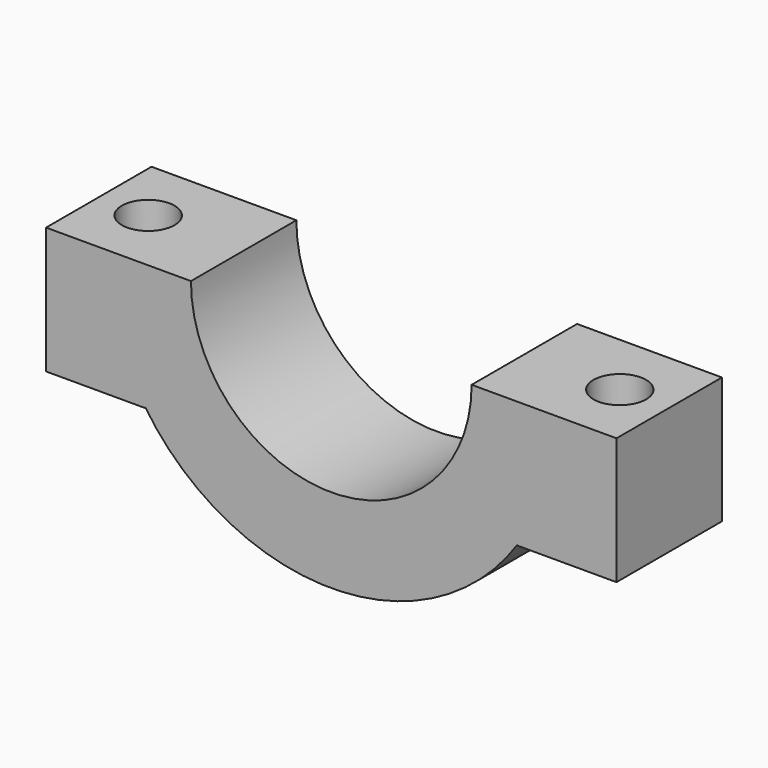
from build123d import *

# Parameters (mm, degrees)
F1_DEPTH = 1.27
F3_R     = 0.508
F2_R     = 0.508
F4_DEPTH = 25.4


with BuildPart() as f1:
    # F0 (on Front) → F1 (new body, symmetric)
    with BuildSketch(Plane.XZ):
        with BuildLine():
            ThreePointArc((-3.592195, -2.4189042089), (-4.1419609714, -1.2645638781), (-4.3307, 0))
            Line((-4.3307, 0), (-5.497195, 0))
            Line((-5.497195, 0), (-5.497195, -2.441702))
            Line((-5.497195, -2.441702), (-3.592195, -2.441702))
            Line((-3.592195, -2.441702), (-3.592195, -2.4189042089))
        make_face()
        with BuildLine():
            Line((5.497195, 0), (4.3307, 0))
            ThreePointArc((4.3307, 0), (4.1419609714, -1.2645638781), (3.592195, -2.4189042089))
            Line((3.592195, -2.4189042089), (3.592195, -2.441702))
            Line((3.592195, -2.441702), (5.497195, -2.441702))
            Line((5.497195, -2.441702), (5.497195, 0))
        make_face()
        with BuildLine():
            Line((-3.592195, 0), (-4.3307, 0))
            ThreePointArc((-4.3307, 0), (-4.1419609714, -1.2645638781), (-3.592195, -2.4189042089))
            Line((-3.592195, -2.4189042089), (-3.592195, 0))
        make_face()
        with BuildLine():
            ThreePointArc((3.592195, -2.4189042089), (4.1419609714, -1.2645638781), (4.3307, 0))
            Line((4.3307, 0), (3.592195, 0))
            Line((3.592195, 0), (3.592195, -2.4189042089))
        make_face()
        with BuildLine():
            ThreePointArc((-3.592195, -2.4189042089), (0, -4.3307), (3.592195, -2.4189042089))
            Line((3.592195, -2.4189042089), (3.592195, 0))
            Line((3.592195, 0), (2.7051, 0))
            ThreePointArc((2.7051, 0), (0, -2.7051), (-2.7051, 0))
            Line((-2.7051, 0), (-3.592195, 0))
            Line((-3.592195, 0), (-3.592195, -2.4189042089))
        make_face()
    extrude(amount=F1_DEPTH, both=True)

    # F3 (on face) + F2 (on face) → F4 (cut)
    with BuildSketch(Plane(origin=(0, 0, -2.441702), x_dir=(1, 0, 0), z_dir=(0, 0, -1))):
        with Locations((4.544695, 0)):
            Circle(F3_R)
    with BuildSketch(Plane(origin=(0, 0, -2.441702), x_dir=(1, 0, 0), z_dir=(0, 0, -1))):
        with Locations((-4.544695, 0)):
            Circle(F2_R)
    extrude(amount=-F4_DEPTH, mode=Mode.SUBTRACT)


solid = f1.part
